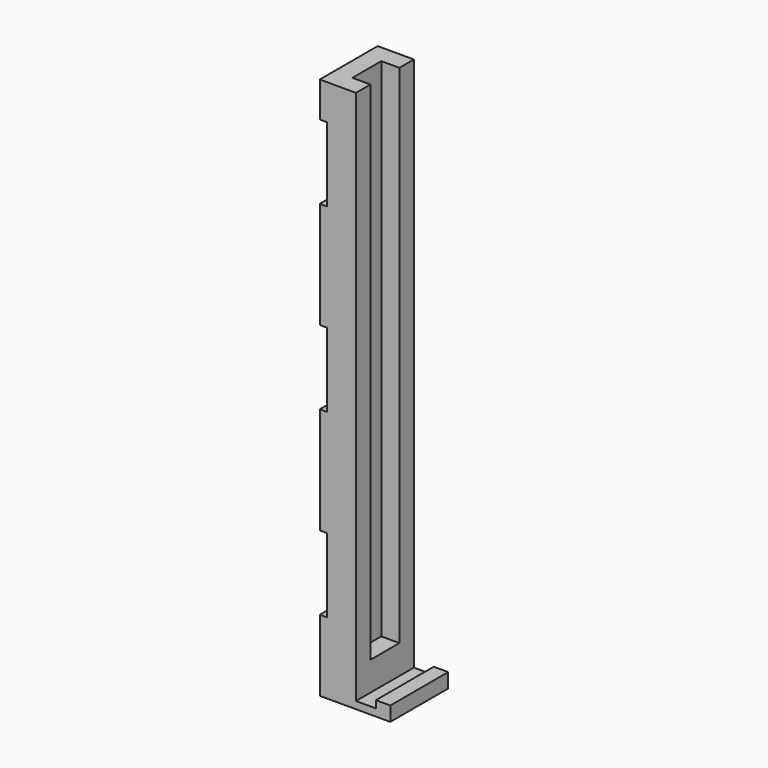
from build123d import *

# Parameters (mm, degrees)
F0_W     = 10
F0_H     = 20
F1_DEPTH = 10
F2_W     = 5.5
F2_H     = 20
F3_DEPTH = 2
F4_W     = 4
F4_H     = 20
F5_DEPTH = 4
F6_W     = 5
F6_H     = 5
F7_DEPTH = 140
F8_W     = 20
F8_H     = 9.75
F8_H_2   = 29.5
F9_DEPTH = 2


with BuildPart() as f1:
    # F0 (on Top) → F1 (new body)
    with BuildSketch(Plane.XY):
        with Locations((5, 10)):
            Rectangle(F0_W, F0_H)
    extrude(amount=F1_DEPTH)

    # F2 (on Top) → F3 (join)
    with BuildSketch(Plane.XY):
        with Locations((12.75, 10)):
            Rectangle(F2_W, F2_H)
    extrude(amount=F3_DEPTH)

    # F4 (on Top) → F5 (join)
    with BuildSketch(Plane.XY):
        with Locations((17.5, 10)):
            Rectangle(F4_W, F4_H)
    extrude(amount=F5_DEPTH)

    # F6 (on face) → F7 (join)
    with BuildSketch(Plane.XY.offset(10)):
        Polygon((5, 20), (2, 20), (2, 0), (5, 0), (5, 5), (5, 15), align=None)
        with Locations((7.5, 17.5)):
            Rectangle(F6_W, F6_H)
        with Locations((7.5, 2.5)):
            Rectangle(F6_W, F6_H)
    extrude(amount=F7_DEPTH)

    # F8 (on face) → F9 (join)
    with BuildSketch(Plane(origin=(2, 0, 0), x_dir=(0, -1, 0), z_dir=(-1, 0, 0))):
        with Locations((-10, 145.125)):
            Rectangle(F8_W, F8_H)
        with Locations((-10, 105)):
            Rectangle(F8_W, F8_H_2)
        with Locations((-10, 55)):
            Rectangle(F8_W, F8_H_2)
        with Locations((-10, 14.875)):
            Rectangle(F8_W, F8_H)
    extrude(amount=F9_DEPTH)


solid = f1.part
